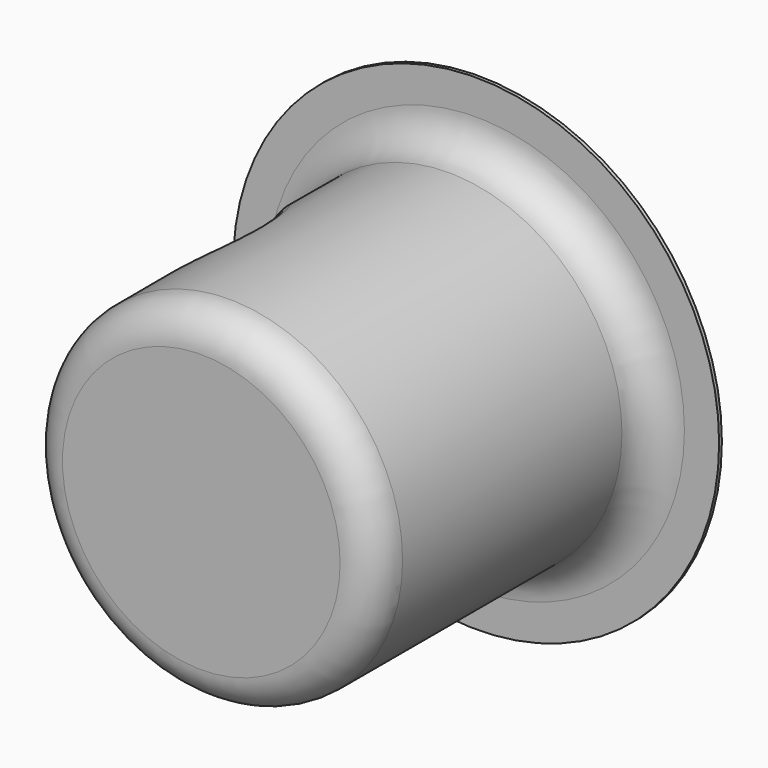
from build123d import *

# Parameters (mm, degrees)
F0_R     = 5
F1_DEPTH = 10
F2_R     = 2.5
F3_DEPTH = 12.5
F0_R_2   = 7
F4_DEPTH = 0.1
F5_R     = 1
F6_R     = 0.5
F7_R     = 1
F8_DEPTH = 5


with BuildPart() as f1:
    # F0 (on Front) → F1 (new body)
    with BuildSketch(Plane.XZ):
        Circle(F0_R)
    extrude(amount=F1_DEPTH)

    # F2 (on Top) → F3 (cut, symmetric)
    with BuildSketch(Plane.XY):
        with Locations((-5, -5)):
            Circle(F2_R)
    extrude(amount=F3_DEPTH, both=True, mode=Mode.SUBTRACT)

    # F0 (on Front) → F4 (join)
    with BuildSketch(Plane.XZ):
        Circle(F0_R_2)
        Circle(F0_R, mode=Mode.SUBTRACT)
    extrude(amount=F4_DEPTH)

    # F5
    f5_edges = [f1.edges().sort_by_distance(p)[0] for p in [
        (-5, -0.1, 0),
        (-5, -10, 0),
    ]]
    fillet(f5_edges, radius=F5_R)

    # F6
    f6_edges = [f1.edges().sort_by_distance(p)[0] for p in [
        (5, -5.05, 0),
        (-5, -1.1, 0),
        (-5, -9, 0),
        (-2.5, -5, 4.330127),
    ]]
    fillet(f6_edges, radius=F6_R)

    # F7 (on Front) → F8 (cut)
    with BuildSketch(Plane.XZ):
        Circle(F7_R)
    extrude(amount=F8_DEPTH, mode=Mode.SUBTRACT)


solid = f1.part
